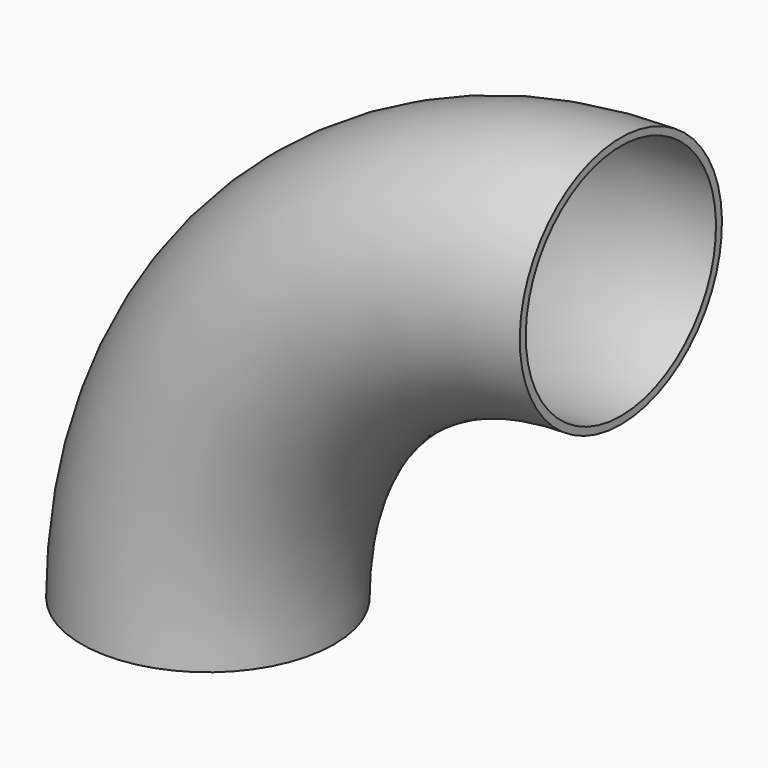
from build123d import *

# Parameters (mm, degrees)
F1_R   = 25.4
F1_R_2 = 23.9


with BuildPart() as f2:
    # F2: sweep along a path in F0
    with BuildLine(Plane.XZ) as f2_path:
        ThreePointArc((0, 83), (-58.689863, 58.689863), (-83, 0))
    # F1 (on Top) → F2 (sweep)
    with BuildSketch(Plane.XY):
        with Locations((-83, 0)):
            Circle(F1_R)
        with Locations((-83, 0)):
            Circle(F1_R_2, mode=Mode.SUBTRACT)
    sweep(path=f2_path.line)


solid = f2.part
